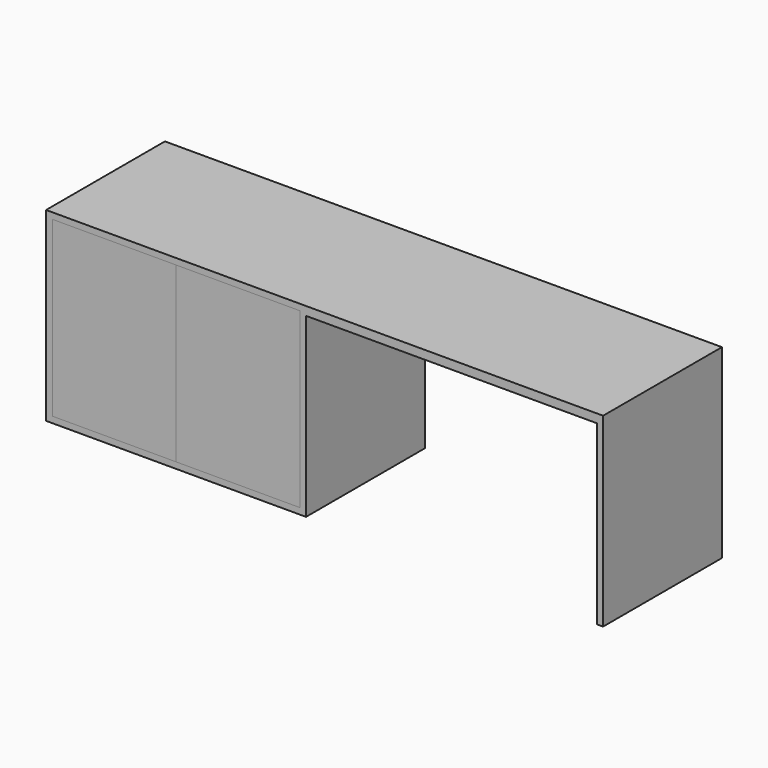
from build123d import *

# Parameters (mm, degrees)
F0_W     = 25
F0_H     = 715
F1_DEPTH = 600
F2_W     = 500
F2_H     = 700
F3_DEPTH = 575
F4_DEPTH = 25
F5_DEPTH = 25


with BuildPart() as f1:
    # F0 (on Front) → F1 (new body)
    with BuildSketch(Plane.XZ):
        Polygon((-1125, 750), (-1125, 0), (-75, 0), (-75, 715), (-75, 750), align=None)
        Polygon((-75, 750), (-75, 715), (1100, 715), (1125, 715), (1125, 750), align=None)
        with Locations((1112.5, 357.5)):
            Rectangle(F0_W, F0_H)
    extrude(amount=F1_DEPTH)

    # F2 (on face) → F3 (cut, through all)
    with BuildSketch(Plane.XZ.offset(600)):
        with Locations((-850, 375)):
            Rectangle(F2_W, F2_H)
        with Locations((-350, 375)):
            Rectangle(F2_W, F2_H)
    extrude(amount=-F3_DEPTH, mode=Mode.SUBTRACT)


with BuildPart() as f4:
    # F2 (on face) → F4 (new body)
    with BuildSketch(Plane.XZ.offset(600)):
        with Locations((-850, 375)):
            Rectangle(F2_W, F2_H)
    extrude(amount=-F4_DEPTH)


with BuildPart() as f5:
    # F2 (on face) → F5 (new body)
    with BuildSketch(Plane.XZ.offset(600)):
        with Locations((-350, 375)):
            Rectangle(F2_W, F2_H)
    extrude(amount=-F5_DEPTH)


solid = Compound([f1.part, f4.part, f5.part])
